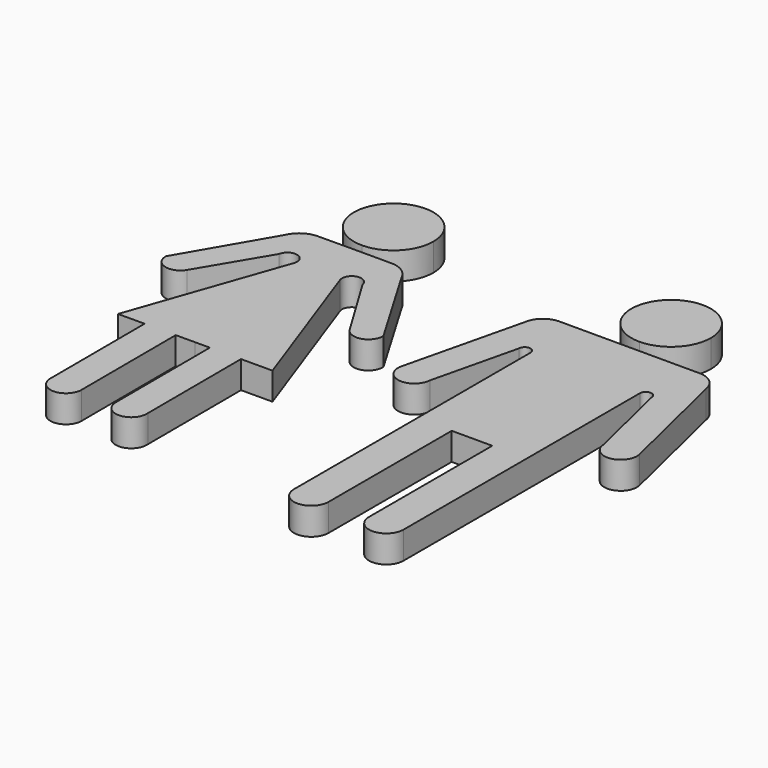
from build123d import *

# Parameters (mm, degrees)
F2_DEPTH = 6.35
F3_DEPTH = 6.35


with BuildPart() as f2:
    # F1 (on Top) → F2 (new body)
    with BuildSketch(Plane.XY):
        with BuildLine():
            ThreePointArc((31.114665, 27.185343), (37.630146, 29.884144), (40.328947, 36.399625))
            ThreePointArc((40.328947, 36.399625), (37.630146, 42.915106), (31.114665, 45.613907))
            Line((31.114665, 45.613907), (31.114665, 27.185343))
        make_face()
        with BuildLine():
            Line((47.379028, 24.344243), (31.114665, 24.344243))
            Line((31.114665, 24.344243), (31.114665, -21.318654))
            Line((31.114665, -21.318654), (35.814174, -21.318654))
            Line((35.814174, -21.318654), (35.814174, -57.034191))
            ThreePointArc((35.814174, -57.034191), (39.814419, -61.034436), (43.814665, -57.034191))
            Line((43.814665, -57.034191), (43.814665, 11.491112))
            ThreePointArc((43.814665, 11.491112), (45.159738, 12.836185), (46.50481, 11.491112))
            Line((46.50481, 11.491112), (51.248619, -8.347725))
            ThreePointArc((51.248619, -8.347725), (55.59106, -11.864868), (58.715373, -7.231753))
            Line((58.715373, -7.231753), (52.08867, 20.343888))
            ThreePointArc((52.08867, 20.343888), (50.46867, 23.209175), (47.379028, 24.344243))
        make_face()
        with BuildLine():
            Line((31.114665, -21.318654), (31.114665, 24.344243))
            Line((31.114665, 24.344243), (14.850302, 24.344243))
            ThreePointArc((14.850302, 24.344243), (11.760659, 23.209175), (10.140659, 20.343888))
            Line((10.140659, 20.343888), (3.513956, -7.231753))
            ThreePointArc((3.513956, -7.231753), (6.638269, -11.864868), (10.98071, -8.347725))
            Line((10.98071, -8.347725), (15.724519, 11.491112))
            ThreePointArc((15.724519, 11.491112), (17.069592, 12.836185), (18.414665, 11.491112))
            Line((18.414665, 11.491112), (18.414665, -57.034191))
            ThreePointArc((18.414665, -57.034191), (22.41491, -61.034436), (26.415156, -57.034191))
            Line((26.415156, -57.034191), (26.415156, -21.318654))
            Line((26.415156, -21.318654), (31.114665, -21.318654))
        make_face()
        with BuildLine():
            Line((31.114665, 27.185343), (31.114665, 45.613907))
            ThreePointArc((31.114665, 45.613907), (21.900383, 36.399625), (31.114665, 27.185343))
        make_face()
    extrude(amount=F2_DEPTH)


with BuildPart() as f3:
    # F0 (on Top) → F3 (new body)
    with BuildSketch(Plane.XY):
        with BuildLine():
            ThreePointArc((-31.705567, 25.319321), (-25.210708, 28.029348), (-22.523171, 34.533545))
            ThreePointArc((-22.523171, 34.533545), (-38.264193, 41.037743), (-31.705567, 25.319321))
        make_face()
        with BuildLine():
            Line((-23.168363, 23.168363), (-31.698125, 23.168363))
            Line((-31.698125, 23.168363), (-31.537577, -23.230185))
            Line((-31.537577, -23.230185), (-28.154348, -23.218479))
            Line((-28.154348, -23.218479), (-20.960285, -23.193586))
            Line((-20.960285, -23.193586), (-13.670774, -23.168363))
            Line((-13.670774, -23.168363), (-26.334226, 12.231745))
            ThreePointArc((-26.334226, 12.231745), (-24.801129, 15.152778), (-22.01714, 13.382968))
            Line((-22.01714, 13.382968), (-12.807355, -1.870737))
            ThreePointArc((-12.807355, -1.870737), (-8.919371, -3.379471), (-6.475629, 0))
            Line((-6.475629, 0), (-18.275665, 20.002501))
            ThreePointArc((-18.275665, 20.002501), (-20.254552, 22.307873), (-23.168363, 23.168363))
        make_face()
        with BuildLine():
            Line((-31.537577, -23.230185), (-31.698125, 23.168363))
            Line((-31.698125, 23.168363), (-40.227683, 23.109334))
            ThreePointArc((-40.227683, 23.109334), (-43.135469, 22.228701), (-45.098354, 19.909689))
            Line((-45.098354, 19.909689), (-56.759685, -0.173993))
            ThreePointArc((-56.759685, -0.173993), (-54.292614, -3.536471), (-50.415164, -2.000868))
            Line((-50.415164, -2.000868), (-41.31116, 13.316207))
            ThreePointArc((-41.31116, 13.316207), (-38.539485, 15.105241), (-36.98621, 12.194887))
            Line((-36.98621, 12.194887), (-49.404379, -23.292008))
            Line((-49.404379, -23.292008), (-43.247845, -23.270705))
            Line((-43.247845, -23.270705), (-36.053782, -23.245812))
            Line((-36.053782, -23.245812), (-31.537577, -23.230185))
        make_face()
        with BuildLine():
            Line((-35.958952, -50.651649), (-36.053782, -23.245812))
            Line((-36.053782, -23.245812), (-43.247845, -23.270705))
            Line((-43.247845, -23.270705), (-43.154073, -50.370816))
            ThreePointArc((-43.154073, -50.370816), (-39.703023, -54.264926), (-35.958952, -50.651649))
        make_face()
        with BuildLine():
            Line((-20.960285, -23.193586), (-28.154348, -23.218479))
            Line((-28.154348, -23.218479), (-28.059519, -50.624316))
            ThreePointArc((-28.059519, -50.624316), (-24.290532, -54.211596), (-20.866514, -50.293696))
            Line((-20.866514, -50.293696), (-20.960285, -23.193586))
        make_face()
    extrude(amount=F3_DEPTH)


solid = Compound([f2.part, f3.part])
